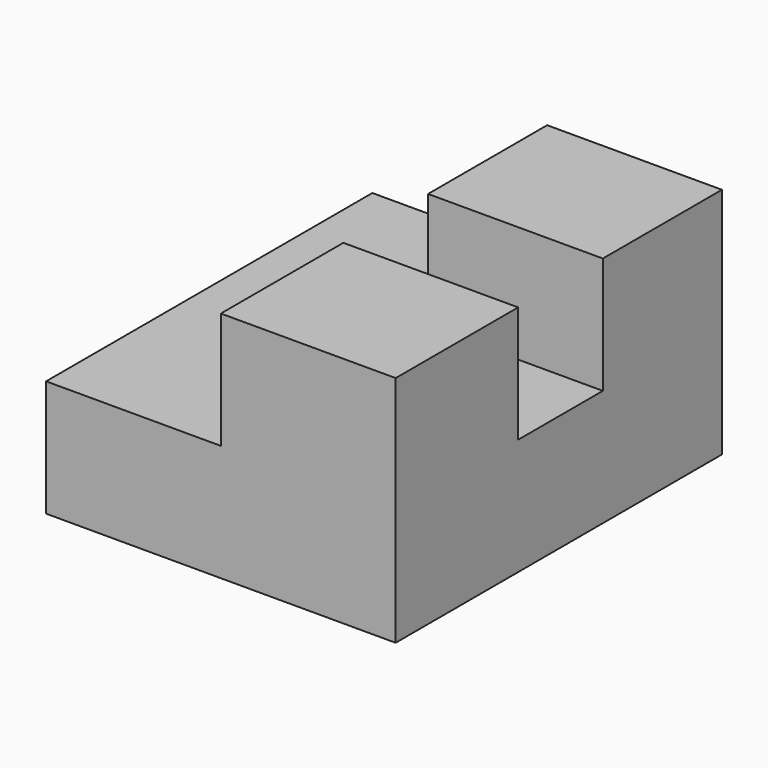
from build123d import *

# Parameters (mm, degrees)
F1_DEPTH = 88.9
F2_W     = 23.074266
F2_H     = 25.4
F3_DEPTH = 38.101


with BuildPart() as f1:
    # F0 (on Front) → F1 (new body)
    with BuildSketch(Plane.XZ):
        Polygon((-69.784411, -39.463792), (-69.784411, -64.863792), (6.415589, -64.863792), (6.415589, -14.063792), (-31.684411, -14.063792), (-31.684411, -39.463792), align=None)
    extrude(amount=F1_DEPTH)

    # F2 (on face) → F3 (cut, through all)
    with BuildSketch(Plane(origin=(-31.684411, 0, 0), x_dir=(0, -1, 0), z_dir=(-1, 0, 0))):
        with Locations((43.987205, -26.763792)):
            Rectangle(F2_W, F2_H)
        with Locations((43.987205, -26.763792)):
            Rectangle(F2_W, F2_H)
    extrude(amount=-F3_DEPTH, mode=Mode.SUBTRACT)


solid = f1.part
